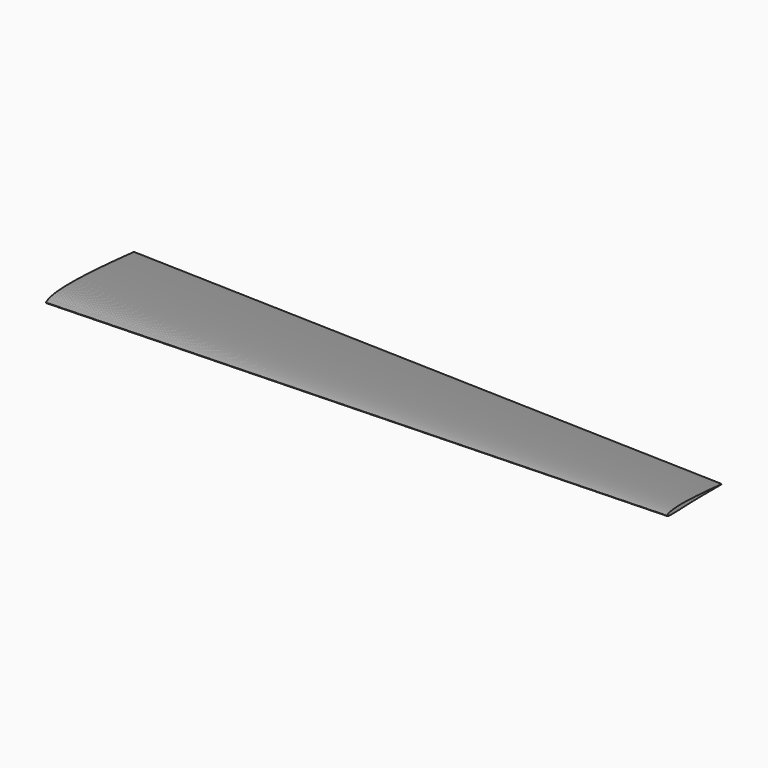
from build123d import *


with BuildPart() as f3:
    # F0 (on Right) → F3 section 0
    with BuildSketch(Plane.YZ):
        Polygon((50.808383, -1.572062), (50.807267, -1.409577), (50.352839, -1.364866), (49.406579, -1.272293), (48.236566, -1.158787), (46.977327, -1.037863), (45.67623, -0.914703), (44.370458, -0.792357), (43.062547, -0.671636), (41.752193, -0.55244), (40.442562, -0.434767), (39.13272, -0.318721), (37.821964, -0.204199), (36.511207, -0.091099), (35.199543, 0.020679), (33.888376, 0.130832), (32.576604, 0.239663), (31.264127, 0.347377), (29.952253, 0.453566), (28.639366, 0.558537), (27.326678, 0.662186), (26.014906, 0.764412), (24.702219, 0.865318), (23.388827, 0.964902), (22.077357, 1.062962), (20.764577, 1.159498), (19.451479, 1.254916), (18.139808, 1.348505), (16.82692, 1.440672), (15.514846, 1.531212), (14.203179, 1.620229), (12.891201, 1.707416), (11.579542, 1.792774), (10.268479, 1.876404), (8.957013, 1.958104), (7.646457, 2.037772), (6.335911, 2.115204), (5.025058, 2.190705), (3.715417, 2.264072), (2.405475, 2.334899), (1.096141, 2.403389), (-0.213294, 2.469338), (-1.523337, 2.533154), (-2.831655, 2.594225), (-4.140884, 2.652655), (-5.449403, 2.708442), (-6.756904, 2.761385), (-8.065118, 2.81138), (-9.37201, 2.85853), (-10.678397, 2.902429), (-11.98458, 2.943076), (-13.28944, 2.980267), (-14.593385, 3.013699), (-15.896416, 3.04327), (-17.197923, 3.068877), (-18.497502, 3.089912), (-19.795453, 3.106069), (-21.091879, 3.117044), (-22.385665, 3.122734), (-23.677113, 3.122226), (-24.96602, 3.115316), (-26.251473, 3.101496), (-27.533165, 3.080055), (-28.81191, 3.050281), (-30.086084, 3.011972), (-31.354869, 2.964009), (-32.618882, 2.905579), (-33.875576, 2.836073), (-35.123732, 2.754068), (-36.364068, 2.658345), (-37.594036, 2.548294), (-38.810492, 2.421883), (-40.014955, 2.277587), (-41.201636, 2.114594), (-42.366876, 1.930668), (-43.507117, 1.724386), (-44.612301, 1.494427), (-45.672469, 1.24008), (-46.667805, 0.963276), (-47.568942, 0.671433), (-48.34123, 0.37898), (-48.961295, 0.104716), (-49.435947, -0.138961), (-49.794553, -0.350934), (-50.067902, -0.536384), (-50.279773, -0.70141), (-50.446526, -0.851193), (-50.577408, -0.990001), (-50.677399, -1.120274), (-50.748734, -1.244247), (-50.791617, -1.360191), (-50.808383, -1.466482), (-50.802185, -1.569319), (-50.768042, -1.674898), (-50.699552, -1.783832), (-50.599663, -1.890834), (-50.469491, -1.994381), (-50.307311, -2.095592), (-50.107736, -2.1967), (-49.859791, -2.299943), (-49.544982, -2.40786), (-49.135162, -2.521976), (-48.594052, -2.64168), (-47.882024, -2.763011), (-46.992267, -2.874688), (-45.962686, -2.96533), (-44.838602, -3.032498), (-43.656189, -3.078429), (-42.437093, -3.10678), (-41.194217, -3.1206), (-39.934067, -3.122734), (-38.658676, -3.114605), (-37.372512, -3.097838), (-36.078626, -3.074364), (-34.776915, -3.045607), (-33.468296, -3.01248), (-32.155203, -2.975898), (-30.838148, -2.936267), (-29.518146, -2.8943), (-28.196722, -2.850299), (-26.875703, -2.804369), (-25.558039, -2.757117), (-24.241289, -2.708951), (-22.92454, -2.65987), (-21.609109, -2.610687), (-20.295102, -2.561403), (-18.980183, -2.512525), (-17.66638, -2.464054), (-16.353286, -2.416294), (-15.03928, -2.369449), (-13.726086, -2.323315), (-12.413298, -2.278604), (-11.099701, -2.23501), (-9.786099, -2.192737), (-8.473315, -2.151989), (-7.160121, -2.112663), (-5.846317, -2.075167), (-4.533328, -2.039194), (-3.219423, -2.005153), (-1.903691, -1.972737), (-0.589783, -1.942049), (0.725238, -1.913291), (2.041685, -1.886464), (3.35752, -1.86106), (4.674067, -1.837688), (5.993053, -1.815841), (7.31214, -1.795416), (8.631025, -1.77682), (9.951027, -1.759545), (11.270823, -1.744303), (12.590115, -1.730178), (13.909705, -1.717679), (15.230723, -1.7064), (16.552349, -1.696746), (17.873269, -1.687804), (19.194592, -1.680081), (20.516218, -1.673171), (21.837642, -1.667074), (23.159176, -1.661383), (24.481104, -1.656404), (25.802226, -1.65173), (27.124052, -1.647157), (28.446291, -1.643092), (29.767916, -1.638621), (31.089751, -1.634557), (32.412393, -1.630797), (33.735345, -1.626935), (35.057885, -1.622769), (36.380224, -1.619212), (37.702772, -1.615351), (39.025205, -1.611286), (40.34745, -1.60712), (41.669992, -1.602649), (42.993136, -1.598483), (44.315475, -1.594215), (45.63528, -1.589744), (46.949797, -1.585882), (48.221115, -1.581208), (49.399772, -1.577041), (50.351514, -1.57379), align=None)
    # F2 (on offset) → F3 section 1
    with BuildSketch(Plane.YZ.offset(558.8)):
        Polygon((31.75, -0.982377), (31.749302, -0.88084), (31.465332, -0.8529), (30.874017, -0.795052), (30.142879, -0.724122), (29.355985, -0.648557), (28.542933, -0.571595), (27.726961, -0.495141), (26.909651, -0.419703), (26.090815, -0.345218), (25.27243, -0.271685), (24.453914, -0.199168), (23.634827, -0.127603), (22.815739, -0.056928), (21.996084, 0.012922), (21.17674, 0.081756), (20.357018, 0.149765), (19.536855, 0.217075), (18.71707, 0.283432), (17.89665, 0.349028), (17.076356, 0.413798), (16.256634, 0.477679), (15.436339, 0.540734), (14.615605, 0.602964), (13.796072, 0.664242), (12.97572, 0.724567), (12.155169, 0.784193), (11.335509, 0.842677), (10.515089, 0.900271), (9.695179, 0.95685), (8.875522, 1.012476), (8.055671, 1.066959), (7.236019, 1.120299), (6.41674, 1.172559), (5.597209, 1.223613), (4.778247, 1.273397), (3.959291, 1.321784), (3.140143, 1.368965), (2.321752, 1.414812), (1.503174, 1.459071), (0.684975, 1.50187), (-0.133286, 1.543082), (-0.951928, 1.58296), (-1.769492, 1.621123), (-2.587626, 1.657636), (-3.405315, 1.692497), (-4.222368, 1.725581), (-5.039867, 1.756823), (-5.85654, 1.786287), (-6.672897, 1.813719), (-7.489127, 1.839119), (-8.304529, 1.86236), (-9.119361, 1.883251), (-9.933621, 1.90173), (-10.746929, 1.917732), (-11.559031, 1.930876), (-12.370117, 1.940973), (-13.180249, 1.947831), (-13.988732, 1.951387), (-14.795754, 1.951069), (-15.601188, 1.946751), (-16.404464, 1.938115), (-17.205389, 1.924717), (-18.004473, 1.906111), (-18.8007, 1.882172), (-19.593559, 1.8522), (-20.383437, 1.815687), (-21.168742, 1.772253), (-21.94871, 1.721009), (-22.723793, 1.661192), (-23.492396, 1.592421), (-24.252555, 1.513427), (-25.00522, 1.423257), (-25.746773, 1.321403), (-26.474929, 1.206468), (-27.187462, 1.077563), (-27.878088, 0.933863), (-28.540583, 0.774922), (-29.162566, 0.601948), (-29.725684, 0.419576), (-30.208284, 0.236823), (-30.595761, 0.065437), (-30.892369, -0.086836), (-31.116461, -0.219297), (-31.287276, -0.335185), (-31.419673, -0.438309), (-31.523877, -0.531908), (-31.605665, -0.618649), (-31.668149, -0.700056), (-31.712726, -0.777526), (-31.739523, -0.849979), (-31.75, -0.9164), (-31.746126, -0.980662), (-31.724791, -1.046639), (-31.681991, -1.114711), (-31.619571, -1.181576), (-31.538228, -1.246283), (-31.436882, -1.309529), (-31.312168, -1.372711), (-31.157228, -1.437227), (-30.960505, -1.504664), (-30.704409, -1.575975), (-30.366272, -1.650778), (-29.921327, -1.726597), (-29.365321, -1.796383), (-28.721939, -1.853025), (-28.019502, -1.894999), (-27.280616, -1.923701), (-26.518807, -1.941417), (-25.742137, -1.950053), (-24.954674, -1.951387), (-24.157686, -1.946307), (-23.353966, -1.935829), (-22.54542, -1.921161), (-21.731985, -1.90319), (-20.914234, -1.882489), (-20.093686, -1.859629), (-19.270663, -1.834864), (-18.445798, -1.808639), (-17.620044, -1.781143), (-16.794543, -1.752441), (-15.971139, -1.722914), (-15.148306, -1.692815), (-14.325474, -1.662144), (-13.503465, -1.63141), (-12.682346, -1.600613), (-11.860657, -1.570069), (-11.039666, -1.53978), (-10.219117, -1.509935), (-9.397999, -1.480661), (-8.577388, -1.451832), (-7.757031, -1.423892), (-6.936168, -1.396651), (-6.115303, -1.370235), (-5.294948, -1.344771), (-4.474337, -1.320197), (-3.653346, -1.296765), (-2.832863, -1.274286), (-2.011808, -1.253014), (-1.18961, -1.232757), (-0.368553, -1.21358), (0.453199, -1.19561), (1.275843, -1.178846), (2.098103, -1.162971), (2.92081, -1.148366), (3.74504, -1.134713), (4.569334, -1.12195), (5.393501, -1.110329), (6.218366, -1.099534), (7.043102, -1.090009), (7.867524, -1.081183), (8.692131, -1.073372), (9.517631, -1.066324), (10.343511, -1.060291), (11.16895, -1.054703), (11.994641, -1.049877), (12.82052, -1.045559), (13.646274, -1.041749), (14.472096, -1.038193), (15.298165, -1.035082), (16.12373, -1.032161), (16.949736, -1.029303), (17.775998, -1.026763), (18.601878, -1.023969), (19.427889, -1.021429), (20.254403, -1.01908), (21.081112, -1.016667), (21.907563, -1.014063), (22.733888, -1.011841), (23.560345, -1.009428), (24.386729, -1.006888), (25.212996, -1.004284), (26.039448, -1.00149), (26.866277, -0.998887), (27.692602, -0.99622), (28.517344, -0.993426), (29.338781, -0.991013), (30.133224, -0.988092), (30.869763, -0.985488), (31.464504, -0.983456), align=None)
    loft()


solid = f3.part
